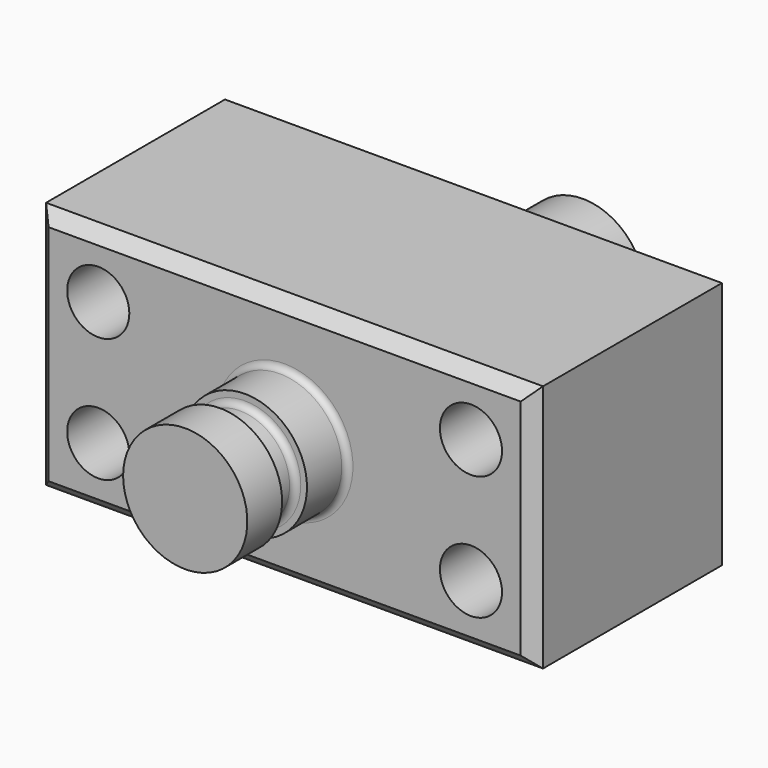
from build123d import *

# Parameters (mm, degrees)
F0_W     = 101.6
F0_H     = 50.8
F1_DEPTH = 25.4
F2_R     = 6.35
F3_DEPTH = 25.401
F4_W     = 12.7
F4_H     = 25.4
F6_W     = 5.08
F6_H     = 6.35
F8_R     = 1.27
F9_SIZE  = 2.54
F10_T    = -2.54


with BuildPart() as f1:
    # F0 (on Front) → F1 (new body)
    with BuildSketch(Plane.XZ):
        Rectangle(F0_W, F0_H)
    extrude(amount=F1_DEPTH)

    # F2 (on face) → F3 (cut, through all)
    with BuildSketch(Plane.XZ.offset(25.4)):
        with Locations((-38.1, 12.7)):
            Circle(F2_R)
        with Locations((-38.1, -12.7)):
            Circle(F2_R)
        with Locations((38.1, 12.7)):
            Circle(F2_R)
        with Locations((38.1, -12.7)):
            Circle(F2_R)
    extrude(amount=-F3_DEPTH, mode=Mode.SUBTRACT)

    # F4 (on Top) → F5 (revolve)
    with BuildSketch(Plane.XY):
        with Locations((-6.35, -38.1)):
            Rectangle(F4_W, F4_H)
    revolve(axis=Axis((0, -38.1, 0), (0, -1, 0)))

    # F6 (on Top) → F7 (revolve, cut)
    with BuildSketch(Plane.XY):
        with Locations((12.7, -38.735)):
            Rectangle(F6_W, F6_H)
    revolve(axis=Axis((0, -39.309513, 0), (0, -1, 0)), mode=Mode.SUBTRACT)

    # F8
    f8_edges = [f1.edges().sort_by_distance(p)[0] for p in [
        (12.7, -25.4, 0),
        (-10.16, -35.56, 0),
        (-10.16, -41.91, 0),
    ]]
    fillet(f8_edges, radius=F8_R)

    # F9
    f9_edges = [f1.edges().sort_by_distance(p)[0] for p in [
        (0, -25.4, 25.4),
        (-50.8, -25.4, 0),
        (0, -25.4, -25.4),
        (50.8, -25.4, 0),
    ]]
    chamfer(f9_edges, length=F9_SIZE)

    # F10
    f10_openings = [f1.faces().sort_by_distance(p)[0] for p in [
        (0, 0, 0),
    ]]
    offset(amount=F10_T, openings=f10_openings)

    # F12: F1 across plane


with BuildPart() as f1_1:
    add(f1.part)
    add(f1.part.mirror(Plane(origin=(0, 0, 0), x_dir=(1, 0, 0), z_dir=(0, 1, 0))))


solid = f1_1.part
